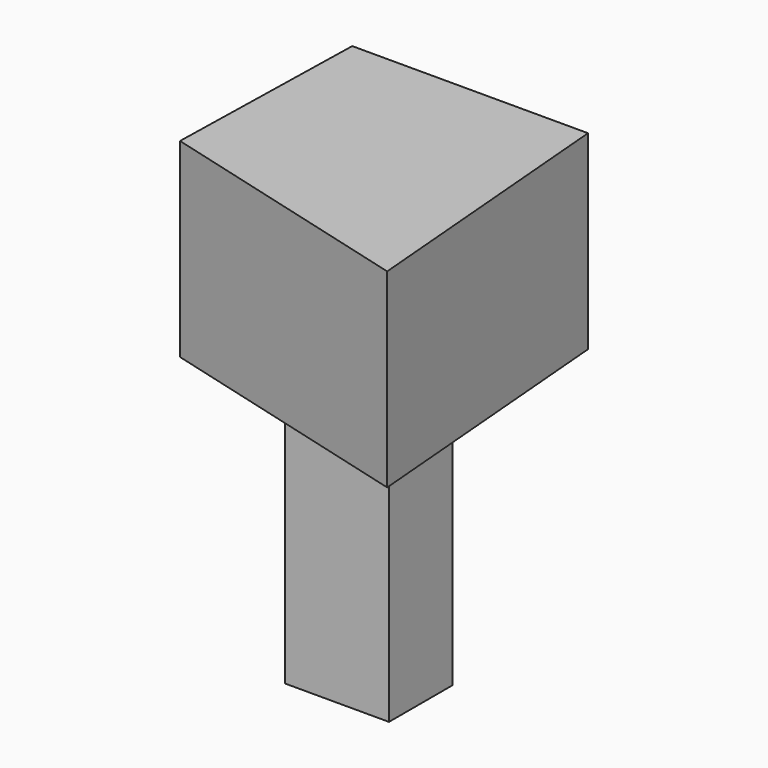
from build123d import *

# Parameters (mm, degrees)
F1_DEPTH = 198.12
F2_W     = 108.06429
F2_H     = 82.711126
F3_DEPTH = 487.68


with BuildPart() as f1:
    # F0 (on Top) → F1 (new body)
    with BuildSketch(Plane.XY):
        Polygon((-119.745024, 194.544032), (-124.725103, -23.461195), (150.345579, -97.574085), (125.821501, 194.544032), align=None)
    extrude(amount=F1_DEPTH)

    # F2 (on face) → F3 (join)
    with BuildSketch(Plane.XY.offset(198.12)):
        with Locations((7.99731, 56.540201)):
            Rectangle(F2_W, F2_H)
    extrude(amount=-F3_DEPTH)


solid = f1.part
